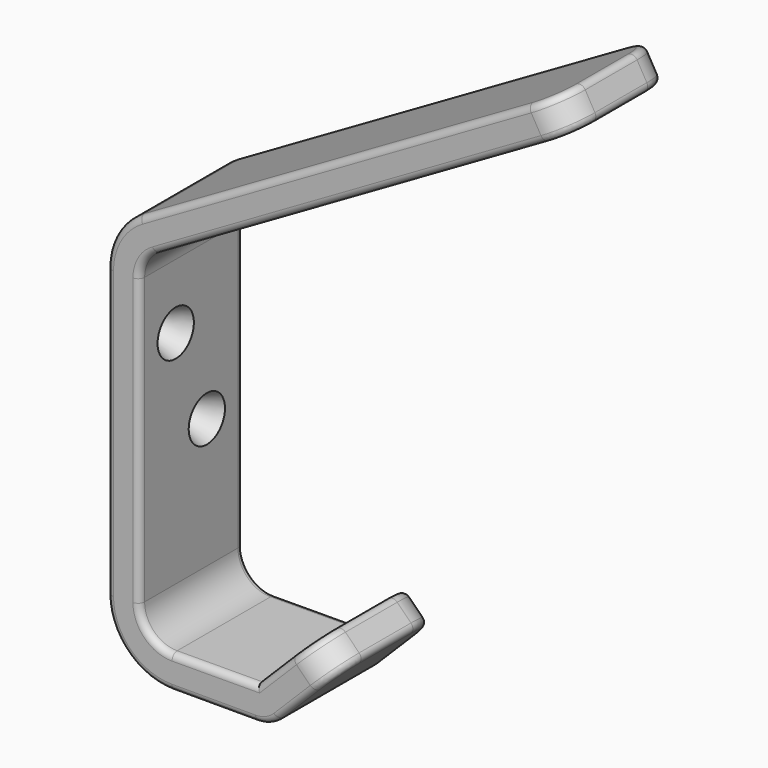
from build123d import *

# Parameters (mm, degrees)
F1_DEPTH        = 20
F2_R            = 10
F3_R            = 5
F4_R            = 5
F5_R            = 10
F6_R            = 5
F7_R            = 5
F8_R            = 5
F9_R            = 5
F10_R           = 5
F11_R           = 1
F12_R           = 1
F13_R           = 1
F15_D           = 4
F15_CSINK_D     = 7
F15_CSINK_ANGLE = 45
F16_D           = 4
F16_CSINK_D     = 7
F16_CSINK_ANGLE = 45


with BuildPart() as f1:
    # F0 (on Front) → F1 (new body)
    with BuildSketch(Plane.XZ):
        Polygon((-14.583103, 18.615519), (-14.583103, -41.384481), (10.416897, -41.384481), (21.023498, -30.777879), (17.487964, -27.242345), (8.544218, -36.186092), (-9.583103, -36.26743), (-9.583103, 15.728768), (57.198929, 54.285392), (54.698929, 58.615519), align=None)
    extrude(amount=F1_DEPTH)

    # F2
    f2_edges = [f1.edges().sort_by_distance(p)[0] for p in [
        (-14.583103, -10, -41.384481),
    ]]
    fillet(f2_edges, radius=F2_R)

    # F3
    f3_edges = [f1.edges().sort_by_distance(p)[0] for p in [
        (-9.583103, -10, -36.26743),
    ]]
    fillet(f3_edges, radius=F3_R)

    # F4
    f4_edges = [f1.edges().sort_by_distance(p)[0] for p in [
        (-9.583103, -10, 15.728768),
    ]]
    fillet(f4_edges, radius=F4_R)

    # F5
    f5_edges = [f1.edges().sort_by_distance(p)[0] for p in [
        (-14.583103, -10, 18.615519),
    ]]
    fillet(f5_edges, radius=F5_R)

    # F6
    f6_edges = [f1.edges().sort_by_distance(p)[0] for p in [
        (19.255731, 0, -29.010112),
    ]]
    fillet(f6_edges, radius=F6_R)

    # F7
    f7_edges = [f1.edges().sort_by_distance(p)[0] for p in [
        (19.255731, -20, -29.010112),
    ]]
    fillet(f7_edges, radius=F7_R)

    # F8
    f8_edges = [f1.edges().sort_by_distance(p)[0] for p in [
        (55.948929, 0, 56.450456),
    ]]
    fillet(f8_edges, radius=F8_R)

    # F9
    f9_edges = [f1.edges().sort_by_distance(p)[0] for p in [
        (55.948929, -20, 56.450456),
    ]]
    fillet(f9_edges, radius=F9_R)

    # F10
    f10_edges = [f1.edges().sort_by_distance(p)[0] for p in [
        (10.416897, -10, -41.384481),
    ]]
    fillet(f10_edges, radius=F10_R)

    # F11
    f11_edges = [f1.edges().sort_by_distance(p)[0] for p in [
        (22.892849, -20, 34.478768),
    ]]
    fillet(f11_edges, radius=F11_R)

    # F12
    f12_edges = [f1.edges().sort_by_distance(p)[0] for p in [
        (20.392849, -20, 38.808895),
    ]]
    fillet(f12_edges, radius=F12_R)

    # F13
    f13_edges = [f1.edges().sort_by_distance(p)[0] for p in [
        (11.248324, -20, -33.481985),
    ]]
    fillet(f13_edges, radius=F13_R)

    # F15 (through all)
    with Locations(Plane.YZ.offset(-9.583103)):
        with Locations((-7, -11.244944)):
            CounterSinkHole(F15_D / 2, F15_CSINK_D / 2, counter_sink_angle=F15_CSINK_ANGLE)

    # F16 (through all)
    with Locations(Plane.YZ.offset(-9.583103)):
        with Locations((-13, 2.842016)):
            CounterSinkHole(F16_D / 2, F16_CSINK_D / 2, counter_sink_angle=F16_CSINK_ANGLE)


solid = f1.part
